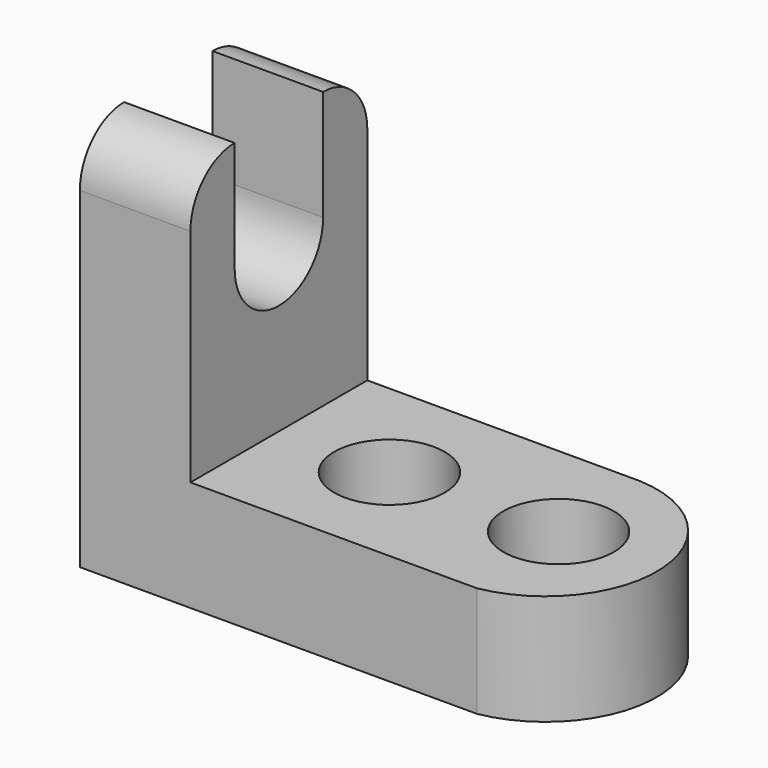
from build123d import *

# Parameters (mm, degrees)
F1_DEPTH  = 25.4
F2_R      = 6.35
F4_DEPTH  = 25.4
F6_DEPTH  = 25.4
F8_DEPTH  = 25.4
F10_DEPTH = 25.4


with BuildPart() as f1:
    # F0 (on Front) → F1 (new body)
    with BuildSketch(Plane.XZ):
        Polygon((0, 44.45), (0, 0), (57.15, 0), (57.15, 12.7), (12.7, 12.7), (12.7, 44.45), align=None)
    extrude(amount=F1_DEPTH)

    # F2 (on face) → F4 (cut)
    with BuildSketch(Plane.XY.offset(12.7)):
        with Locations((25.4, -12.7)):
            Circle(F2_R)
        with Locations((44.45, -12.2258998454)):
            Circle(F2_R)
    extrude(amount=-F4_DEPTH, mode=Mode.SUBTRACT)

    # F5 (on face) → F6 (cut)
    with BuildSketch(Plane.XY.offset(12.7)):
        with BuildLine():
            ThreePointArc((44.0470911383, 0), (56.1638585939, -11.9926238783), (45.6338373882, -25.4))
            Line((45.6338373882, -25.4), (57.15, -25.4))
            Line((57.15, -25.4), (57.15, 0))
            Line((57.15, 0), (44.0470911383, 0))
        make_face()
    extrude(amount=-F6_DEPTH, mode=Mode.SUBTRACT)

    # F7 (on face) → F8 (cut)
    with BuildSketch(Plane.YZ.offset(12.7)):
        with BuildLine():
            ThreePointArc((-19.05, 31.75), (-12.7, 38.1), (-6.35, 31.75))
            Line((-6.35, 31.75), (-6.35, 44.45))
            Line((-6.35, 44.45), (-19.05, 44.45))
            Line((-19.05, 44.45), (-19.05, 31.75))
        make_face()
        with BuildLine():
            ThreePointArc((-19.05, 31.75), (-12.7, 25.4), (-6.35, 31.75))
            ThreePointArc((-6.35, 31.75), (-12.7, 38.1), (-19.05, 31.75))
        make_face()
    extrude(amount=-F8_DEPTH, mode=Mode.SUBTRACT)

    # F9 (on face) → F10 (cut)
    with BuildSketch(Plane.YZ.offset(12.7)):
        with BuildLine():
            ThreePointArc((-25.4, 38.1), (-23.5401280605, 42.5901280605), (-19.05, 44.45))
            Line((-19.05, 44.45), (-25.4, 44.45))
            Line((-25.4, 44.45), (-25.4, 38.1))
        make_face()
        with BuildLine():
            Line((0, 44.45), (-6.35, 44.45))
            ThreePointArc((-6.35, 44.45), (-1.8598719395, 42.5901280605), (0, 38.1))
            Line((0, 38.1), (0, 44.45))
        make_face()
    extrude(amount=-F10_DEPTH, mode=Mode.SUBTRACT)


solid = f1.part
